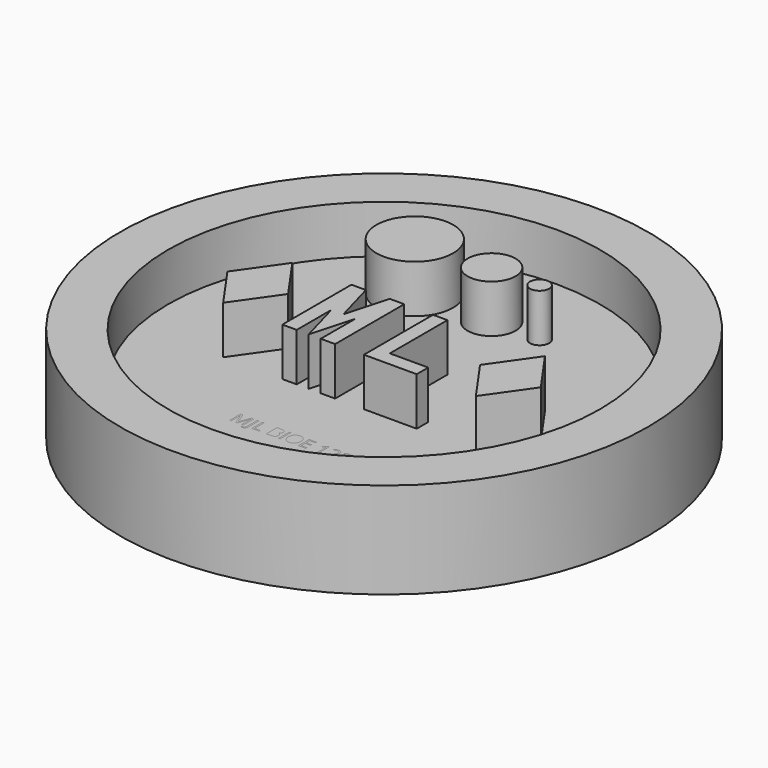
from build123d import *

# Parameters (mm, degrees)
F0_R     = 22.5
F0_R_2   = 4
F0_R_3   = 2.5
F0_R_4   = 1
F1_DEPTH = 5
F0_R_5   = 27.5
F2_DEPTH = 10
F3_W     = 0.1625054194
F3_H     = 1.3982810946
F3_R     = 4
F3_R_2   = 2.5
F3_R_3   = 1
F4_DEPTH = 5


with BuildPart() as f1:
    # F0 (on Top) → F1 (new body)
    with BuildSketch(Plane.XY):
        Circle(F0_R)
        Polygon((-13.1622776602, 4.5), (-10, 0), (-13.1622776602, -4.5), (-16.3245553203, 0), align=None, mode=Mode.SUBTRACT)
        Polygon((-7, -4.5), (-7, 4.5), (-5.5, 4.5), (-4.25, 0), (-3, 4.5), (-1.5, 4.5), (-1.5, -4.5), (-3, -4.5), (-3, 0), (-4.25, -4.5), (-5.5, 0), (-5.5, -4.5), align=None, mode=Mode.SUBTRACT)
        with Locations((-8, 14)):
            Circle(F0_R_2, mode=Mode.SUBTRACT)
        Polygon((1.5, -4.5), (1.5, 4.5), (3, 4.5), (3, -3), (7, -3), (7, -4.5), align=None, mode=Mode.SUBTRACT)
        Polygon((10, 0), (13.1622776602, 4.5), (16.3245553203, 0), (13.1622776602, -4.5), align=None, mode=Mode.SUBTRACT)
        with Locations((0, 14)):
            Circle(F0_R_3, mode=Mode.SUBTRACT)
        with Locations((5, 14)):
            Circle(F0_R_4, mode=Mode.SUBTRACT)
    extrude(amount=F1_DEPTH)

    # F0 (on Top) → F2 (join)
    with BuildSketch(Plane.XY):
        Circle(F0_R_5)
        Circle(F0_R, mode=Mode.SUBTRACT)
        with Locations((-8, 14)):
            Circle(F0_R_2)
        with Locations((0, 14)):
            Circle(F0_R_3)
        with Locations((5, 14)):
            Circle(F0_R_4)
        Polygon((-5.5, 4.5), (-7, 4.5), (-7, -4.5), (-5.5, -4.5), (-5.5, 0), (-4.25, -4.5), (-3, 0), (-3, -4.5), (-1.5, -4.5), (-1.5, 4.5), (-3, 4.5), (-4.25, 0), align=None)
        Polygon((3, 4.5), (1.5, 4.5), (1.5, -4.5), (7, -4.5), (7, -3), (3, -3), align=None)
        Polygon((16.3245553203, 0), (13.1622776602, 4.5), (10, 0), (13.1622776602, -4.5), align=None)
        Polygon((-13.1622776602, -4.5), (-10, 0), (-13.1622776602, 4.5), (-16.3245553203, 0), align=None)
    extrude(amount=F2_DEPTH)


with BuildPart() as f4:
    # F3 (on Top) → F4 (new body)
    with BuildSketch(Plane.XY):
        with BuildLine():
            ThreePointArc((-14.4854135615, -17.2169333492), (9.4954777359, -20.3981838056), (22.5, 0))
            ThreePointArc((22.5, 0), (20.4076622922, 9.4750894332), (14.5197937984, 17.1879489193))
            ThreePointArc((14.5197937984, 17.1879489193), (-17.1680694863, 14.473626491), (-14.4854135615, -17.2169333492))
        make_face()
        with BuildLine():
            Line((-5.0580194333, -12.8384197511), (-5.1890030859, -12.8384197511))
            Line((-5.1890030859, -12.8384197511), (-5.6633597715, -11.5989716371))
            Line((-5.6633597715, -11.5989716371), (-5.6710106858, -11.5989716371))
            add(Edge.make_bspline(
                [(-5.6710106858, -11.5989716371), (-5.6575450766, -11.7461752279), (-5.6575450766, -11.9490774747)],
                knots=[0, 0, 0, 1, 1, 1], degree=2))
            Line((-5.6575450766, -11.9490774747), (-5.6575450766, -12.8384197511))
            Line((-5.6575450766, -12.8384197511), (-5.8078090332, -12.8384197511))
            Line((-5.8078090332, -12.8384197511), (-5.8078090332, -11.4401386566))
            Line((-5.8078090332, -11.4401386566), (-5.5629797761, -11.4401386566))
            Line((-5.5629797761, -11.4401386566), (-5.1201448573, -12.5935904941))
            Line((-5.1201448573, -12.5935904941), (-5.112493943, -12.5935904941))
            Line((-5.112493943, -12.5935904941), (-4.6659865854, -11.4401386566))
            Line((-4.6659865854, -11.4401386566), (-4.4229935477, -11.4401386566))
            Line((-4.4229935477, -11.4401386566), (-4.4229935477, -12.8384197511))
            Line((-4.4229935477, -12.8384197511), (-4.5854989671, -12.8384197511))
            Line((-4.5854989671, -12.8384197511), (-4.5854989671, -11.937448085))
            add(Edge.make_bspline(
                [(-4.5854989671, -11.937448085), (-4.5854989671, -11.7825935799), (-4.572033358, -11.6008078565)],
                knots=[0, 0, 0, 1, 1, 1], degree=2))
            Line((-4.572033358, -11.6008078565), (-4.5796842723, -11.6008078565))
            Line((-4.5796842723, -11.6008078565), (-5.0580194333, -12.8384197511))
        make_face(mode=Mode.SUBTRACT)
        with BuildLine():
            add(Edge.make_bspline(
                [(-3.9792405192, -13.106660806), (-4.0710514907, -13.2065817465), (-4.2433500803, -13.2065817465)],
                knots=[0, 0, 0, 1, 1, 1], degree=2))
            add(Edge.make_bspline(
                [(-4.2433500803, -13.2065817465), (-4.3330187957, -13.2065817465), (-4.3847389763, -13.1808746745)],
                knots=[0, 0, 0, 1, 1, 1], degree=2))
            Line((-4.3847389763, -13.1808746745), (-4.3847389763, -13.0422401077))
            add(Edge.make_bspline(
                [(-4.3847389763, -13.0422401077), (-4.3167988575, -13.0612143751), (-4.2433500803, -13.0612143751)],
                knots=[0, 0, 0, 1, 1, 1], degree=2))
            add(Edge.make_bspline(
                [(-4.2433500803, -13.0612143751), (-4.1484787432, -13.0612143751), (-4.0992068552, -13.003832518)],
                knots=[0, 0, 0, 1, 1, 1], degree=2))
            add(Edge.make_bspline(
                [(-4.0992068552, -13.003832518), (-4.0499349672, -12.9464506608), (-4.0499349672, -12.8384197511)],
                knots=[0, 0, 0, 1, 1, 1], degree=2))
            Line((-4.0499349672, -12.8384197511), (-4.0499349672, -11.4401386566))
            Line((-4.0499349672, -11.4401386566), (-3.8874295478, -11.4401386566))
            Line((-3.8874295478, -11.4401386566), (-3.8874295478, -12.824954142))
            add(Edge.make_bspline(
                [(-3.8874295478, -12.824954142), (-3.8874295478, -13.0067398654), (-3.9792405192, -13.106660806)],
                knots=[0, 0, 0, 1, 1, 1], degree=2))
        make_face(mode=Mode.SUBTRACT)
        Polygon((-2.737038076, -12.8384197511), (-3.5165132233, -12.8384197511), (-3.5165132233, -11.4401386566), (-3.3540078039, -11.4401386566), (-3.3540078039, -12.6912161603), (-2.737038076, -12.6912161603), align=None, mode=Mode.SUBTRACT)
        with BuildLine():
            Line((-1.990920915, -12.8384197511), (-1.990920915, -11.4401386566))
            Line((-1.990920915, -11.4401386566), (-1.5958277014, -11.4401386566))
            add(Edge.make_bspline(
                [(-1.5958277014, -11.4401386566), (-1.317640458, -11.4401386566), (-1.1932365918, -11.523380604)],
                knots=[0, 0, 0, 1, 1, 1], degree=2))
            add(Edge.make_bspline(
                [(-1.1932365918, -11.523380604), (-1.0688327255, -11.6066225514), (-1.0688327255, -11.7862660188)],
                knots=[0, 0, 0, 1, 1, 1], degree=2))
            add(Edge.make_bspline(
                [(-1.0688327255, -11.7862660188), (-1.0688327255, -11.9108229033), (-1.1381500089, -11.9916165582)],
                knots=[0, 0, 0, 1, 1, 1], degree=2))
            add(Edge.make_bspline(
                [(-1.1381500089, -11.9916165582), (-1.2074672923, -12.072410213), (-1.3405932009, -12.0962810656)],
                knots=[0, 0, 0, 1, 1, 1], degree=2))
            Line((-1.3405932009, -12.0962810656), (-1.3405932009, -12.1057681993))
            add(Edge.make_bspline(
                [(-1.3405932009, -12.1057681993), (-1.0220091301, -12.160242709), (-1.0220091301, -12.4405722084)],
                knots=[0, 0, 0, 1, 1, 1], degree=2))
            add(Edge.make_bspline(
                [(-1.0220091301, -12.4405722084), (-1.0220091301, -12.62786659), (-1.1487082706, -12.7331431706)],
                knots=[0, 0, 0, 1, 1, 1], degree=2))
            add(Edge.make_bspline(
                [(-1.1487082706, -12.7331431706), (-1.2754074112, -12.8384197511), (-1.5030986203, -12.8384197511)],
                knots=[0, 0, 0, 1, 1, 1], degree=2))
            Line((-1.5030986203, -12.8384197511), (-1.990920915, -12.8384197511))
        make_face(mode=Mode.SUBTRACT)
        with Locations((-0.6405345439, -12.1392792039)):
            Rectangle(F3_W, F3_H, mode=Mode.SUBTRACT)
        with BuildLine():
            add(Edge.make_bspline(
                [(0.8686848078, -11.6093768805), (1.0379230318, -11.8006497376), (1.0379230318, -12.1372899661)],
                knots=[0, 0, 0, 1, 1, 1], degree=2))
            add(Edge.make_bspline(
                [(1.0379230318, -12.1372899661), (1.0379230318, -12.4730120849), (0.8680727347, -12.66535607)],
                knots=[0, 0, 0, 1, 1, 1], degree=2))
            add(Edge.make_bspline(
                [(0.8680727347, -12.66535607), (0.6982224376, -12.8577000551), (0.3961643416, -12.8577000551)],
                knots=[0, 0, 0, 1, 1, 1], degree=2))
            add(Edge.make_bspline(
                [(0.3961643416, -12.8577000551), (0.0873734411, -12.8577000551), (-0.0804876183, -12.6687224723)],
                knots=[0, 0, 0, 1, 1, 1], degree=2))
            add(Edge.make_bspline(
                [(-0.0804876183, -12.6687224723), (-0.2483486777, -12.4797448895), (-0.2483486777, -12.1354537467)],
                knots=[0, 0, 0, 1, 1, 1], degree=2))
            add(Edge.make_bspline(
                [(-0.2483486777, -12.1354537467), (-0.2483486777, -11.7939169331), (-0.0800285634, -11.6060104782)],
                knots=[0, 0, 0, 1, 1, 1], degree=2))
            add(Edge.make_bspline(
                [(-0.0800285634, -11.6060104782), (0.0882915508, -11.4181040234), (0.3980005611, -11.4181040234)],
                knots=[0, 0, 0, 1, 1, 1], degree=2))
            add(Edge.make_bspline(
                [(0.3980005611, -11.4181040234), (0.6994465839, -11.4181040234), (0.8686848078, -11.6093768805)],
                knots=[0, 0, 0, 1, 1, 1], degree=2))
        make_face(mode=Mode.SUBTRACT)
        Polygon((2.1289434087, -12.6930523797), (2.1289434087, -12.8384197511), (1.3494682615, -12.8384197511), (1.3494682615, -11.4401386566), (2.1289434087, -11.4401386566), (2.1289434087, -11.5845879182), (1.5119736809, -11.5845879182), (1.5119736809, -12.0350737513), (2.091606947, -12.0350737513), (2.091606947, -12.1786049033), (1.5119736809, -12.1786049033), (1.5119736809, -12.6930523797), align=None, mode=Mode.SUBTRACT)
        with BuildLine():
            Line((3.4390859708, -11.4401386566), (3.4390859708, -12.8384197511))
            Line((3.4390859708, -12.8384197511), (3.2842314657, -12.8384197511))
            Line((3.2842314657, -12.8384197511), (3.2842314657, -11.8419646748))
            add(Edge.make_bspline(
                [(3.2842314657, -11.8419646748), (3.2842314657, -11.7174077902), (3.2918823799, -11.6066225514)],
                knots=[0, 0, 0, 1, 1, 1], degree=2))
            add(Edge.make_bspline(
                [(3.2918823799, -11.6066225514), (3.2719900028, -11.6268209651), (3.2470480222, -11.6487025799)],
                knots=[0, 0, 0, 1, 1, 1], degree=2))
            add(Edge.make_bspline(
                [(3.2470480222, -11.6487025799), (3.2221060417, -11.6705841948), (3.0195098314, -11.8352318702)],
                knots=[0, 0, 0, 1, 1, 1], degree=2))
            Line((3.0195098314, -11.8352318702), (2.9353497743, -11.7262828508))
            Line((2.9353497743, -11.7262828508), (3.3053479891, -11.4401386566))
            Line((3.3053479891, -11.4401386566), (3.4390859708, -11.4401386566))
        make_face(mode=Mode.SUBTRACT)
        with BuildLine():
            Line((4.8900053556, -12.6912161603), (4.8900053556, -12.8384197511))
            Line((4.8900053556, -12.8384197511), (3.9709775318, -12.8384197511))
            Line((3.9709775318, -12.8384197511), (3.9709775318, -12.7016214037))
            Line((3.9709775318, -12.7016214037), (4.3391395272, -12.331623189))
            add(Edge.make_bspline(
                [(4.3391395272, -12.331623189), (4.5074596414, -12.1611608187), (4.5610160414, -12.088477133)],
                knots=[0, 0, 0, 1, 1, 1], degree=2))
            add(Edge.make_bspline(
                [(4.5610160414, -12.088477133), (4.6145724414, -12.0157934473), (4.6413506414, -11.9469352187)],
                knots=[0, 0, 0, 1, 1, 1], degree=2))
            add(Edge.make_bspline(
                [(4.6413506414, -11.9469352187), (4.6681288414, -11.8780769902), (4.6681288414, -11.7988135182)],
                knots=[0, 0, 0, 1, 1, 1], degree=2))
            add(Edge.make_bspline(
                [(4.6681288414, -11.7988135182), (4.6681288414, -11.6868041331), (4.6001887226, -11.6213123068)],
                knots=[0, 0, 0, 1, 1, 1], degree=2))
            add(Edge.make_bspline(
                [(4.6001887226, -11.6213123068), (4.5322486037, -11.5558204805), (4.4116701946, -11.5558204805)],
                knots=[0, 0, 0, 1, 1, 1], degree=2))
            add(Edge.make_bspline(
                [(4.4116701946, -11.5558204805), (4.3247558083, -11.5558204805), (4.2467164826, -11.5845879182)],
                knots=[0, 0, 0, 1, 1, 1], degree=2))
            add(Edge.make_bspline(
                [(4.2467164826, -11.5845879182), (4.1686771569, -11.613355356), (4.0731937467, -11.6889463891)],
                knots=[0, 0, 0, 1, 1, 1], degree=2))
            Line((4.0731937467, -11.6889463891), (3.9890336895, -11.5809154794))
            add(Edge.make_bspline(
                [(3.9890336895, -11.5809154794), (4.1821427661, -11.4202462794), (4.4098339752, -11.4202462794)],
                knots=[0, 0, 0, 1, 1, 1], degree=2))
            add(Edge.make_bspline(
                [(4.4098339752, -11.4202462794), (4.6069215271, -11.4202462794), (4.718777894, -11.5210853297)],
                knots=[0, 0, 0, 1, 1, 1], degree=2))
            add(Edge.make_bspline(
                [(4.718777894, -11.5210853297), (4.8306342608, -11.62192438), (4.8306342608, -11.7920807136)],
                knots=[0, 0, 0, 1, 1, 1], degree=2))
            add(Edge.make_bspline(
                [(4.8306342608, -11.7920807136), (4.8306342608, -11.9252066222), (4.7559613374, -12.055272165)],
                knots=[0, 0, 0, 1, 1, 1], degree=2))
            add(Edge.make_bspline(
                [(4.7559613374, -12.055272165), (4.681288414, -12.1853377078), (4.4768559843, -12.3842614792)],
                knots=[0, 0, 0, 1, 1, 1], degree=2))
            Line((4.4768559843, -12.3842614792), (4.1708194129, -12.683565246))
            Line((4.1708194129, -12.683565246), (4.1708194129, -12.6912161603))
            Line((4.1708194129, -12.6912161603), (4.8900053556, -12.6912161603))
        make_face(mode=Mode.SUBTRACT)
        with BuildLine():
            add(Edge.make_bspline(
                [(5.8442273852, -11.5134344154), (5.95715488, -11.6066225514), (5.95715488, -11.7691279708)],
                knots=[0, 0, 0, 1, 1, 1], degree=2))
            add(Edge.make_bspline(
                [(5.95715488, -11.7691279708), (5.95715488, -11.903171989), (5.8820229017, -11.9882501559)],
                knots=[0, 0, 0, 1, 1, 1], degree=2))
            add(Edge.make_bspline(
                [(5.8820229017, -11.9882501559), (5.8068909235, -12.0733283227), (5.6691744663, -12.1020957604)],
                knots=[0, 0, 0, 1, 1, 1], degree=2))
            Line((5.6691744663, -12.1020957604), (5.6691744663, -12.1097466747))
            add(Edge.make_bspline(
                [(5.6691744663, -12.1097466747), (5.8374945806, -12.1305571616), (5.9187472903, -12.2167064564)],
                knots=[0, 0, 0, 1, 1, 1], degree=2))
            add(Edge.make_bspline(
                [(5.9187472903, -12.2167064564), (6, -12.3028557513), (6, -12.4424084278)],
                knots=[0, 0, 0, 1, 1, 1], degree=2))
            add(Edge.make_bspline(
                [(6, -12.4424084278), (6, -12.6422503089), (5.8613654332, -12.749975182)],
                knots=[0, 0, 0, 1, 1, 1], degree=2))
            add(Edge.make_bspline(
                [(5.8613654332, -12.749975182), (5.7227308663, -12.8577000551), (5.4674963658, -12.8577000551)],
                knots=[0, 0, 0, 1, 1, 1], degree=2))
            add(Edge.make_bspline(
                [(5.4674963658, -12.8577000551), (5.3564050904, -12.8577000551), (5.2641350641, -12.8408680437)],
                knots=[0, 0, 0, 1, 1, 1], degree=2))
            add(Edge.make_bspline(
                [(5.2641350641, -12.8408680437), (5.1718650379, -12.8240360323), (5.0849506516, -12.782109022)],
                knots=[0, 0, 0, 1, 1, 1], degree=2))
            Line((5.0849506516, -12.782109022), (5.0849506516, -12.6309269558))
            add(Edge.make_bspline(
                [(5.0849506516, -12.6309269558), (5.1758435133, -12.6759143318), (5.2786718013, -12.6993261295)],
                knots=[0, 0, 0, 1, 1, 1], degree=2))
            add(Edge.make_bspline(
                [(5.2786718013, -12.6993261295), (5.3815000893, -12.7227379272), (5.4733110607, -12.7227379272)],
                knots=[0, 0, 0, 1, 1, 1], degree=2))
            add(Edge.make_bspline(
                [(5.4733110607, -12.7227379272), (5.8356583612, -12.7227379272), (5.8356583612, -12.4387359889)],
                knots=[0, 0, 0, 1, 1, 1], degree=2))
            add(Edge.make_bspline(
                [(5.8356583612, -12.4387359889), (5.8356583612, -12.1841135616), (5.435974599, -12.1841135616)],
                knots=[0, 0, 0, 1, 1, 1], degree=2))
            Line((5.435974599, -12.1841135616), (5.2982581418, -12.1841135616))
            Line((5.2982581418, -12.1841135616), (5.2982581418, -12.0476212507))
            Line((5.2982581418, -12.0476212507), (5.4378108184, -12.0476212507))
            add(Edge.make_bspline(
                [(5.4378108184, -12.0476212507), (5.6012343475, -12.0476212507), (5.6968707761, -11.9753966199)],
                knots=[0, 0, 0, 1, 1, 1], degree=2))
            add(Edge.make_bspline(
                [(5.6968707761, -11.9753966199), (5.7925072046, -11.903171989), (5.7925072046, -11.7749426656)],
                knots=[0, 0, 0, 1, 1, 1], degree=2))
            add(Edge.make_bspline(
                [(5.7925072046, -11.7749426656), (5.7925072046, -11.6727264508), (5.7222718115, -11.6142734657)],
                knots=[0, 0, 0, 1, 1, 1], degree=2))
            add(Edge.make_bspline(
                [(5.7222718115, -11.6142734657), (5.6520364184, -11.5558204805), (5.5314580092, -11.5558204805)],
                knots=[0, 0, 0, 1, 1, 1], degree=2))
            add(Edge.make_bspline(
                [(5.5314580092, -11.5558204805), (5.4396470378, -11.5558204805), (5.3583943281, -11.5807624611)],
                knots=[0, 0, 0, 1, 1, 1], degree=2))
            add(Edge.make_bspline(
                [(5.3583943281, -11.5807624611), (5.2771416184, -11.6057044417), (5.1727831476, -11.6727264508)],
                knots=[0, 0, 0, 1, 1, 1], degree=2))
            Line((5.1727831476, -11.6727264508), (5.0926015659, -11.5656136508))
            add(Edge.make_bspline(
                [(5.0926015659, -11.5656136508), (5.1785978424, -11.497673532), (5.2909132641, -11.4589599057)],
                knots=[0, 0, 0, 1, 1, 1], degree=2))
            add(Edge.make_bspline(
                [(5.2909132641, -11.4589599057), (5.4032286858, -11.4202462794), (5.5277855704, -11.4202462794)],
                knots=[0, 0, 0, 1, 1, 1], degree=2))
            add(Edge.make_bspline(
                [(5.5277855704, -11.4202462794), (5.7312998903, -11.4202462794), (5.8442273852, -11.5134344154)],
                knots=[0, 0, 0, 1, 1, 1], degree=2))
        make_face(mode=Mode.SUBTRACT)
        Polygon((-13.1622776602, 4.5), (-10, 0), (-13.1622776602, -4.5), (-16.3245553203, 0), align=None, mode=Mode.SUBTRACT)
        Polygon((-7, -4.5), (-7, 4.5), (-5.5, 4.5), (-4.25, 0), (-3, 4.5), (-1.5, 4.5), (-1.5, -4.5), (-3, -4.5), (-3, 0), (-4.25, -4.5), (-5.5, 0), (-5.5, -4.5), align=None, mode=Mode.SUBTRACT)
        with Locations((-8, 14)):
            Circle(F3_R, mode=Mode.SUBTRACT)
        with Locations((0, 14)):
            Circle(F3_R_2, mode=Mode.SUBTRACT)
        Polygon((1.5, -4.5), (1.5, 4.5), (3, 4.5), (3, -3), (7, -3), (7, -4.5), align=None, mode=Mode.SUBTRACT)
        Polygon((10, 0), (13.1622776602, 4.5), (16.3245553203, 0), (13.1622776602, -4.5), align=None, mode=Mode.SUBTRACT)
        with Locations((5, 14)):
            Circle(F3_R_3, mode=Mode.SUBTRACT)
        with BuildLine():
            ThreePointArc((14.5197937984, 17.1879489193), (20.4076622922, 9.4750894332), (22.5, 0))
            ThreePointArc((22.5, 0), (9.4954777359, -20.3981838056), (-14.4854135615, -17.2169333492))
            ThreePointArc((-14.4854135615, -17.2169333492), (9.5094696701, -20.4366467221), (22.5343802369, -0.0289844299))
            ThreePointArc((22.5343802369, -0.0289844299), (20.4325640425, 9.4664933059), (14.5197937984, 17.1879489193))
        make_face()
        with BuildLine():
            ThreePointArc((-14.4854135615, -17.2169333492), (-17.1680694863, 14.473626491), (14.5197937984, 17.1879489193))
            ThreePointArc((14.5197937984, 17.1879489193), (-17.2024497231, 14.5026109209), (-14.4854135615, -17.2169333492))
        make_face()
    extrude(amount=F4_DEPTH)


solid = Compound([f1.part, f4.part])
